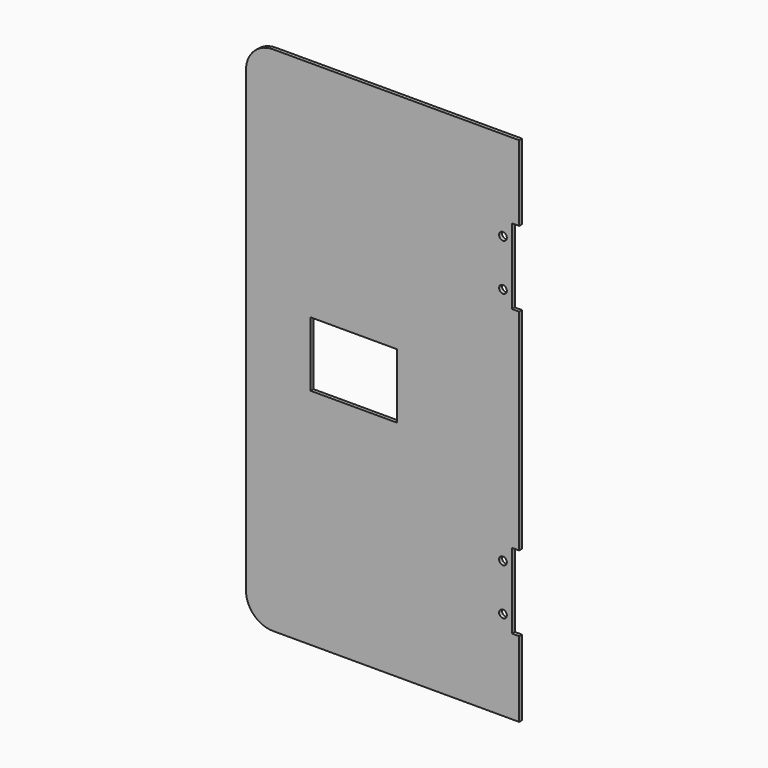
from build123d import *

# Parameters (mm, degrees)
F0_W     = 4
F0_H     = 42
F0_H_2   = 117
F1_DEPTH = 1
F2_R     = 15
F4_D     = 4.3
F4_DEPTH = 4
F4_TIP   = 1.2918503309
F5_W     = 48
F5_H     = 36
F6_DEPTH = 2


with BuildPart() as f1:
    # F0 (on Front) → F1 (new body, symmetric)
    with BuildSketch(Plane.XZ):
        Polygon((74, 100.5), (74, 142.5), (-74, 142.5), (-74, -142.5), (74, -142.5), (74, -100.5), (74, -58.5), (74, 58.5), align=None)
        with Locations((76, 121.5)):
            Rectangle(F0_W, F0_H)
        with Locations((76, 0)):
            Rectangle(F0_W, F0_H_2)
        with Locations((76, -121.5)):
            Rectangle(F0_W, F0_H)
    extrude(amount=F1_DEPTH, both=True)

    # F2
    f2_edges = [f1.edges().sort_by_distance(p)[0] for p in [
        (-74, 0, 142.5),
        (-74, 0, -142.5),
    ]]
    fillet(f2_edges, radius=F2_R)

    # F4
    with Locations(Plane(origin=(0, 1, 0), x_dir=(-1, 0, 0), z_dir=(0, 1, 0))):
        with Locations((-69, 92.5), (-69, 66.5), (-69, -92.5), (-69, -66.5)):
            Hole(F4_D / 2, depth=F4_DEPTH)
            with Locations((0, 0, -(F4_DEPTH + F4_TIP / 2))):  # 118° drill point
                Cone(0, F4_D / 2, F4_TIP, mode=Mode.SUBTRACT)

    # F5 (on face) → F6 (cut)
    with BuildSketch(Plane(origin=(0, 1, 0), x_dir=(-1, 0, 0), z_dir=(0, 1, 0))):
        with Locations((14, 0)):
            Rectangle(F5_W, F5_H)
    extrude(amount=-F6_DEPTH, mode=Mode.SUBTRACT)


solid = f1.part
